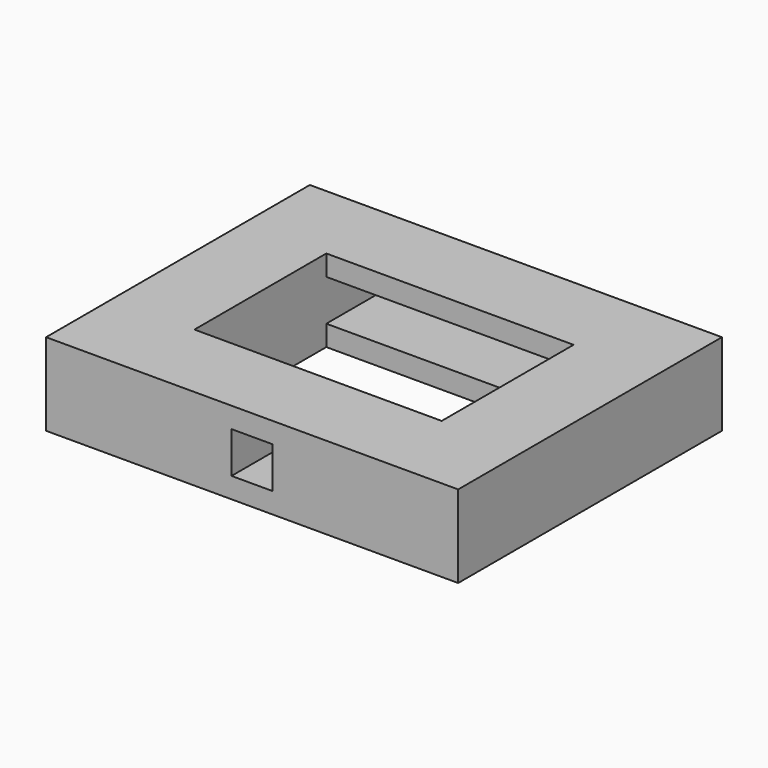
from build123d import *

# Parameters (mm, degrees)
F0_W     = 50
F0_H     = 40
F0_W_2   = 30
F0_H_2   = 20
F1_DEPTH = 10
F2_W     = 30
F2_H     = 5
F3_DEPTH = 25
F4_W     = 5
F4_H     = 5
F5_DEPTH = 10


with BuildPart() as f1:
    # F0 (on Top) → F1 (new body)
    with BuildSketch(Plane.XY):
        Rectangle(F0_W, F0_H)
        Rectangle(F0_W_2, F0_H_2, mode=Mode.SUBTRACT)
    extrude(amount=F1_DEPTH)

    # F2 (on face) → F3 (cut)
    with BuildSketch(Plane(origin=(0, 20, 0), x_dir=(-1, 0, 0), z_dir=(0, 1, 0))):
        with Locations((0, 5)):
            Rectangle(F2_W, F2_H)
    extrude(amount=-F3_DEPTH, mode=Mode.SUBTRACT)

    # F4 (on face) → F5 (cut, through all)
    with BuildSketch(Plane(origin=(0, -10, 0), x_dir=(-1, 0, 0), z_dir=(0, 1, 0))):
        with Locations((0, 5)):
            Rectangle(F4_W, F4_H)
    extrude(amount=-F5_DEPTH, mode=Mode.SUBTRACT)


solid = f1.part
